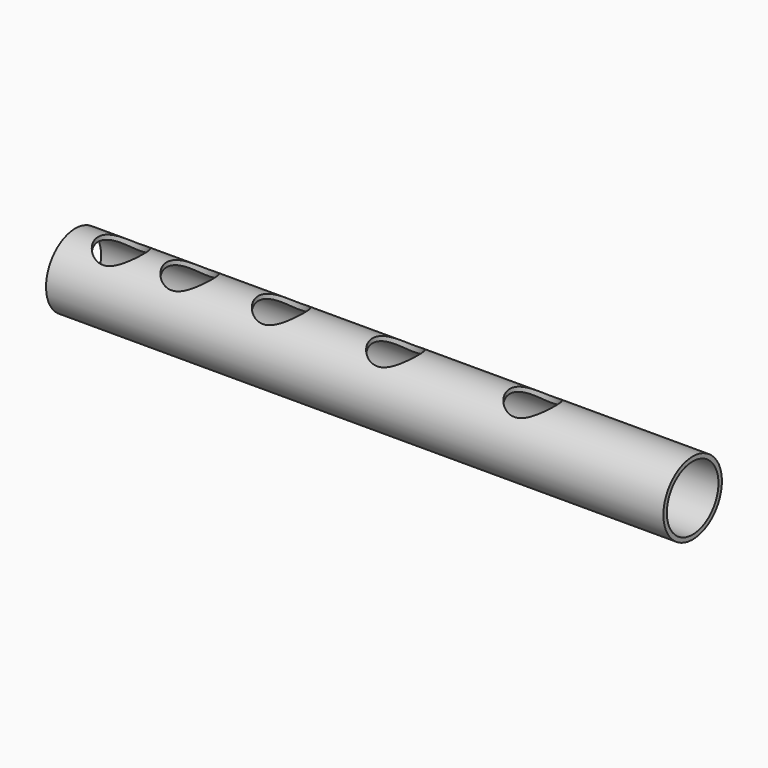
from build123d import *

# Parameters (mm, degrees)
F0_R     = 80
F0_R_2   = 70.5
F1_DEPTH = 1350
F3_DEPTH = 200


with BuildPart() as f1:
    # F0 (on Right) → F1 (new body)
    with BuildSketch(Plane.YZ):
        Circle(F0_R)
        Circle(F0_R_2, mode=Mode.SUBTRACT)
    extrude(amount=F1_DEPTH)

    # F2 (on Top) → F3 (cut)
    with BuildSketch(Plane.XY):
        with BuildLine():
            Line((150, 0), (100, 0))
            Line((100, 0), (50, 0))
            ThreePointArc((50, 0), (100, -50), (150, 0))
        make_face()
        with BuildLine():
            Line((50, 0), (100, 0))
            Line((100, 0), (150, 0))
            ThreePointArc((150, 0), (100, 50), (50, 0))
        make_face()
        with BuildLine():
            ThreePointArc((300, 0), (250, 50), (200, 0))
            Line((200, 0), (250, 0))
            Line((250, 0), (300, 0))
        make_face()
        with BuildLine():
            Line((250, 0), (200, 0))
            ThreePointArc((200, 0), (250, -50), (300, 0))
            Line((300, 0), (250, 0))
        make_face()
        with BuildLine():
            ThreePointArc((500, 0), (450, 50), (400, 0))
            Line((400, 0), (450, 0))
            Line((450, 0), (500, 0))
        make_face()
        with BuildLine():
            Line((450, 0), (400, 0))
            ThreePointArc((400, 0), (450, -50), (500, 0))
            Line((500, 0), (450, 0))
        make_face()
        with BuildLine():
            ThreePointArc((750, 0), (700, 50), (650, 0))
            Line((650, 0), (700, 0))
            Line((700, 0), (750, 0))
        make_face()
        with BuildLine():
            Line((700, 0), (650, 0))
            ThreePointArc((650, 0), (700, -50), (750, 0))
            Line((750, 0), (700, 0))
        make_face()
        with BuildLine():
            ThreePointArc((1050, 0), (1000, 50), (950, 0))
            Line((950, 0), (1000, 0))
            Line((1000, 0), (1050, 0))
        make_face()
        with BuildLine():
            Line((1000, 0), (950, 0))
            ThreePointArc((950, 0), (1000, -50), (1050, 0))
            Line((1050, 0), (1000, 0))
        make_face()
    extrude(amount=F3_DEPTH, mode=Mode.SUBTRACT)


solid = f1.part
